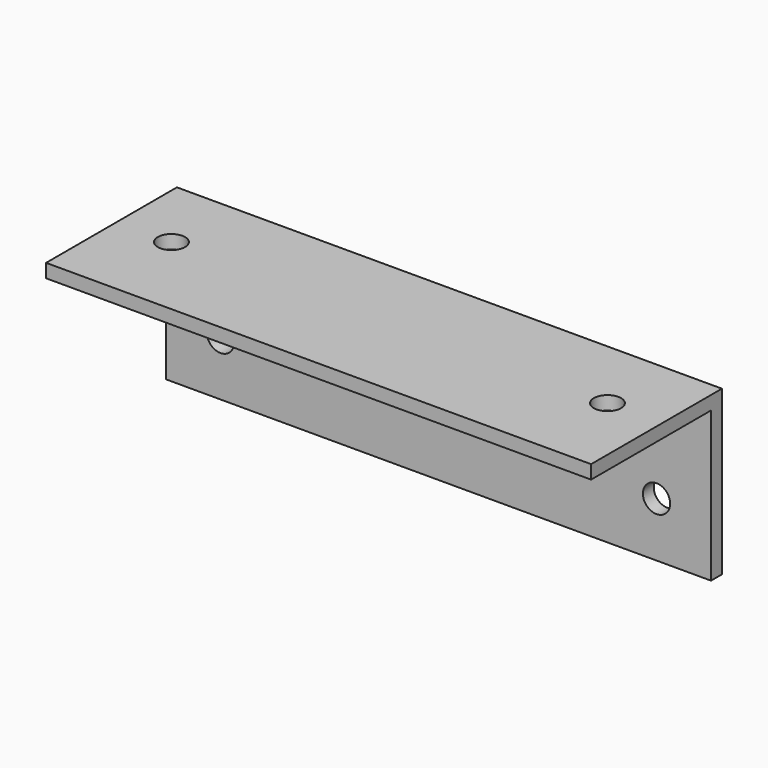
from build123d import *

# Parameters (mm, degrees)
F1_DEPTH = 127
F2_R     = 6.35
F3_DEPTH = 6.35
F4_R     = 6.35
F5_DEPTH = 6.35


with BuildPart() as f1:
    # F0 (on Right) → F1 (new body, symmetric)
    with BuildSketch(Plane.YZ):
        Polygon((38.1, 38.1), (-38.1, 38.1), (-38.1, 31.75), (31.75, 31.75), (31.75, -38.1), (38.1, -38.1), align=None)
    extrude(amount=F1_DEPTH, both=True)

    # F2 (on face) → F3 (cut, through all)
    with BuildSketch(Plane(origin=(0, 38.1, 0), x_dir=(-1, 0, 0), z_dir=(0, 1, 0))):
        with Locations((-101.6, -12.7)):
            Circle(F2_R)
        with Locations((101.6, -12.7)):
            Circle(F2_R)
    extrude(amount=-F3_DEPTH, mode=Mode.SUBTRACT)

    # F4 (on face) → F5 (cut, through all)
    with BuildSketch(Plane.XY.offset(38.1)):
        with Locations((-101.6, 3.175)):
            Circle(F4_R)
        with Locations((101.6, 3.175)):
            Circle(F4_R)
    extrude(amount=-F5_DEPTH, mode=Mode.SUBTRACT)


solid = f1.part
